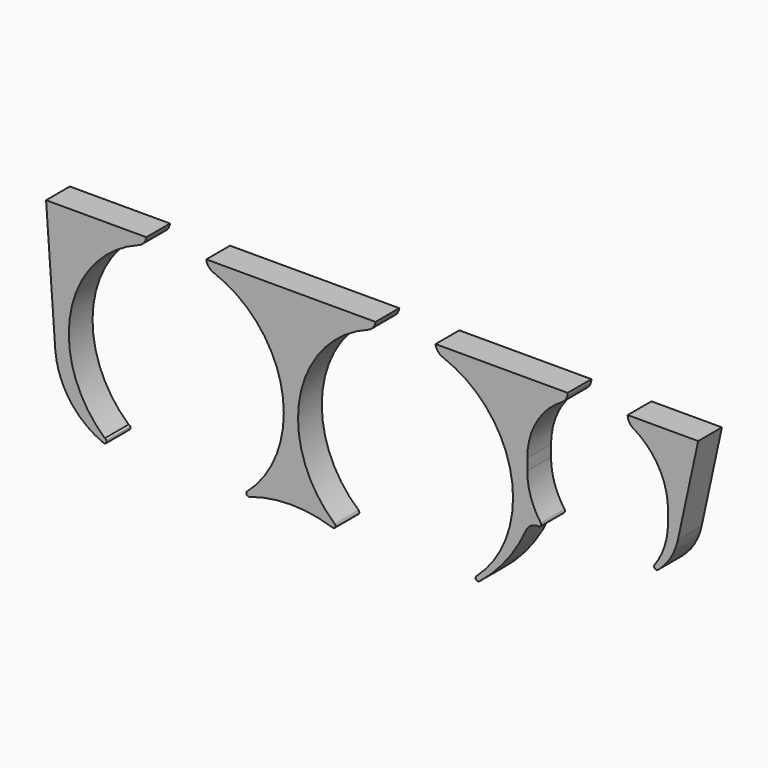
from build123d import *

# Parameters (mm, degrees)
F2_DEPTH = 12.7
F4_DEPTH = 12.7
F6_DEPTH = 12.7
F8_DEPTH = 12.7


with BuildPart() as f2:
    # F1 (on Front) → F2 (new body)
    with BuildSketch(Plane.XZ):
        with BuildLine():
            Line((36.193965, 47.100893), (-36.193965, 47.100893))
            ThreePointArc((-36.193965, 47.100893), (-35.158371, 44.654124), (-33.007359, 43.094547))
            ThreePointArc((-33.007359, 43.094547), (-3.804031, 8.303249), (-18.741713, -34.593538))
            ThreePointArc((-18.741713, -34.593538), (-18.954128, -35.863063), (-17.751552, -36.322))
            ThreePointArc((-17.751552, -36.322), (0, -33.444191), (17.751552, -36.322))
            ThreePointArc((17.751552, -36.322), (18.954128, -35.863063), (18.741713, -34.593538))
            ThreePointArc((18.741713, -34.593538), (3.804031, 8.303249), (33.007359, 43.094547))
            ThreePointArc((33.007359, 43.094547), (35.158371, 44.654124), (36.193965, 47.100893))
        make_face()
    extrude(amount=F2_DEPTH)


with BuildPart() as f4:
    # F3 (on Front) → F4 (new body)
    with BuildSketch(Plane.XZ):
        with BuildLine():
            ThreePointArc((-79.560726, -34.365607), (-94.208534, 8.472654), (-65.036641, 43.094547))
            ThreePointArc((-65.036641, 43.094547), (-62.885629, 44.654124), (-61.850035, 47.100893))
            Line((-61.850035, 47.100893), (-104.712535, 47.100893))
            Line((-104.712535, 47.100893), (-100.786909, -7.822192))
            ThreePointArc((-100.786909, -7.822192), (-94.534295, -25.000149), (-80.163183, -36.298314))
            ThreePointArc((-80.163183, -36.298314), (-79.072094, -36.088467), (-78.825582, -35.005074))
            ThreePointArc((-78.825582, -35.005074), (-79.194848, -34.687288), (-79.560726, -34.365607))
        make_face()
        with BuildLine():
            ThreePointArc((-78.825582, -35.005074), (-79.111497, -34.591467), (-79.560726, -34.365607))
            ThreePointArc((-79.560726, -34.365607), (-79.194848, -34.687288), (-78.825582, -35.005074))
        make_face()
    extrude(amount=F4_DEPTH)


with BuildPart() as f6:
    # F5 (on Front) → F6 (new body)
    with BuildSketch(Plane.XZ):
        with BuildLine():
            ThreePointArc((65.036641, 43.094547), (94.239969, 8.303249), (79.302287, -34.593538))
            ThreePointArc((79.302287, -34.593538), (79.179428, -35.994381), (80.573843, -36.176202))
            ThreePointArc((80.573843, -36.176202), (92.119756, -24.511565), (100.563508, -10.437656))
            ThreePointArc((100.563508, -10.437656), (102.759546, -7.971744), (105.975392, -7.222314))
            ThreePointArc((105.975392, -7.222314), (106.941776, -6.704817), (106.875514, -5.6106))
            ThreePointArc((106.875514, -5.6106), (102.574382, 2.799913), (101.092, 12.129382))
            Line((101.092, 12.129382), (101.092, 16.904582))
            ThreePointArc((101.092, 16.904582), (105.061618, 31.844636), (115.923403, 42.84394))
            ThreePointArc((115.923403, 42.84394), (117.707916, 44.648941), (118.364, 47.100893))
            Line((118.364, 47.100893), (61.850035, 47.100893))
            ThreePointArc((61.850035, 47.100893), (62.885629, 44.654124), (65.036641, 43.094547))
        make_face()
    extrude(amount=F6_DEPTH)


with BuildPart() as f8:
    # F7 (on Front) → F8 (new body)
    with BuildSketch(Plane.XZ):
        with BuildLine():
            ThreePointArc((146.458597, 42.84394), (157.320382, 31.844636), (161.29, 16.904582))
            Line((161.29, 16.904582), (161.29, 12.129382))
            ThreePointArc((161.29, 12.129382), (159.807618, 2.799913), (155.506486, -5.6106))
            ThreePointArc((155.506486, -5.6106), (155.632721, -6.950949), (156.978455, -6.989291))
            ThreePointArc((156.978455, -6.989291), (162.429502, -0.642676), (165.522964, 7.130608))
            Line((165.522964, 7.130608), (174.1805, 47.100893))
            Line((174.1805, 47.100893), (144.018, 47.100893))
            ThreePointArc((144.018, 47.100893), (144.674084, 44.648941), (146.458597, 42.84394))
        make_face()
    extrude(amount=F8_DEPTH)


solid = Compound([f2.part, f4.part, f6.part, f8.part])
